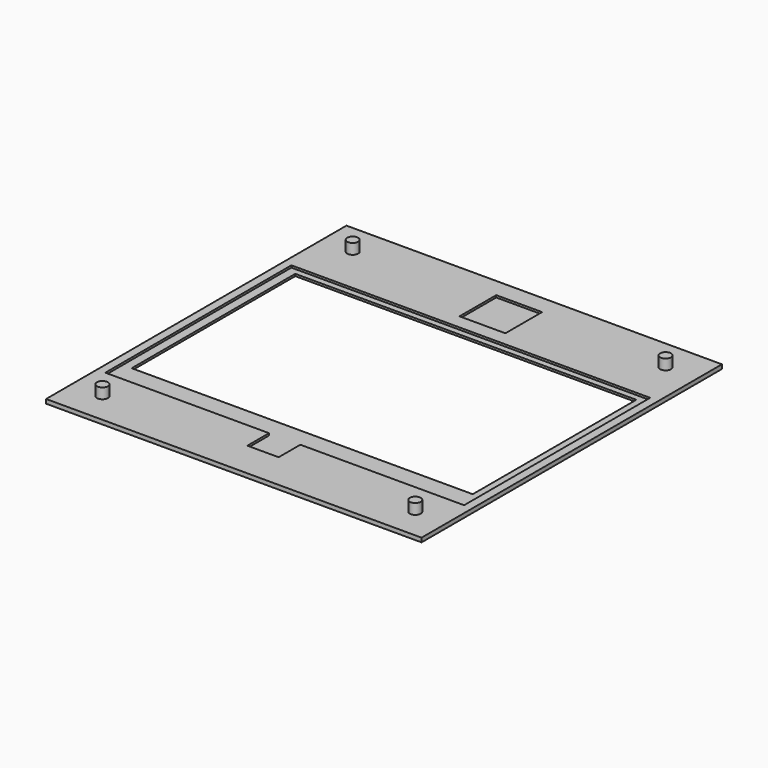
from build123d import *

# Parameters (mm, degrees)
SKETCH_W        = 180
SKETCH_H        = 180
SKETCH_W_2      = 163.5
SKETCH_H_2      = 98
PAD_DEPTH       = 2
SKETCH003_W     = 172
SKETCH003_H     = 111.5
POCKET001_DEPTH = 1
SKETCH002_W     = 22
SKETCH002_H     = 22
SKETCH002_W_2   = 15
SKETCH002_H_2   = 15
POCKET_DEPTH    = 1
SKETCH001_R     = 2.625
PAD001_DEPTH    = 5


with BuildPart() as part:
    # Sketch (on DatumPlane) → Pad (new body)
    with BuildSketch(Plane.XY.offset(-2)):
        Rectangle(SKETCH_W, SKETCH_H)
        Rectangle(SKETCH_W_2, SKETCH_H_2, mode=Mode.SUBTRACT)
    extrude(amount=PAD_DEPTH)

    # Sketch003 (on DatumPlane) → Pocket001 (cut)
    with BuildSketch(Plane.XY):
        with Locations((0, -3.75)):
            Rectangle(SKETCH003_W, SKETCH003_H)
    extrude(amount=-POCKET001_DEPTH, mode=Mode.SUBTRACT)

    # Sketch002 (on DatumPlane) → Pocket (cut)
    with BuildSketch(Plane.XY):
        with Locations((0, 70)):
            Rectangle(SKETCH002_W, SKETCH002_H)
        with Locations((0, -65)):
            Rectangle(SKETCH002_W_2, SKETCH002_H_2)
    extrude(amount=-POCKET_DEPTH, mode=Mode.SUBTRACT)

    # Sketch001 (on DatumPlane) → Pad001 (join)
    with BuildSketch(Plane.XY):
        with Locations((75, 75)):
            Circle(SKETCH001_R)
        with Locations((-75, 75)):
            Circle(SKETCH001_R)
        with Locations((-75, -75)):
            Circle(SKETCH001_R)
        with Locations((75, -75)):
            Circle(SKETCH001_R)
    extrude(amount=PAD001_DEPTH)


solid = part.part
